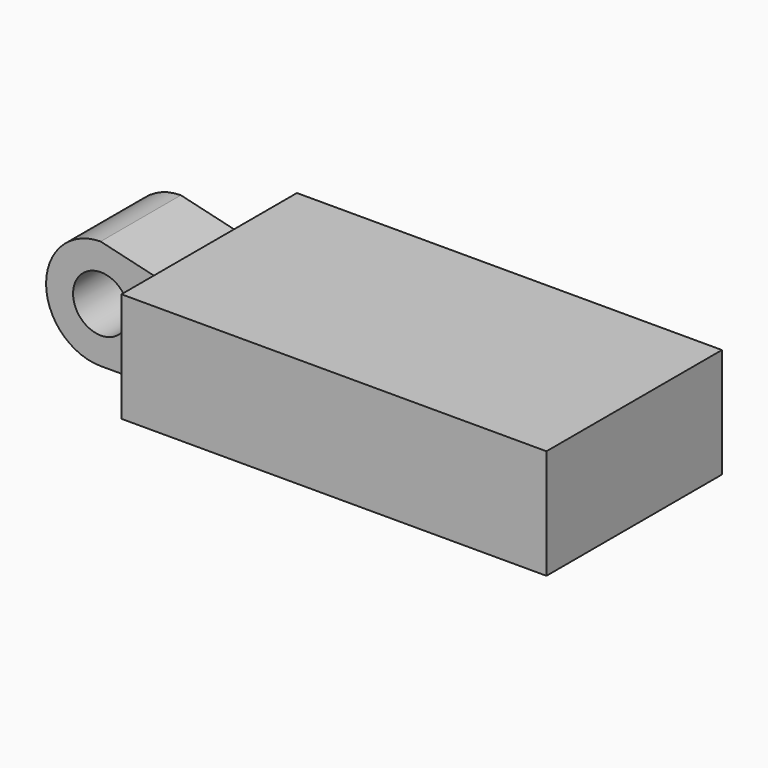
from build123d import *

# Parameters (mm, degrees)
F0_W      = 20
F0_H      = 10
F1_DEPTH  = 5
F3_DEPTH  = 5
F4_R      = 1.27
F5_DEPTH  = 7.287
F7_DEPTH  = 25.4
F9_DEPTH  = 25.4
F10_W     = 0.6200999394
F10_H     = 0.5964474939
F11_DEPTH = 25.4
F12_W     = 0.5901486054
F12_H     = 4.5354563772
F13_DEPTH = 25.4


with BuildPart() as f1:
    # F0 (on Top) → F1 (new body)
    with BuildSketch(Plane.XY):
        with Locations((1.042785123, -6.5861073174)):
            Rectangle(F0_W, F0_H)
    extrude(amount=F1_DEPTH)

    # F2 (on face) → F3 (join)
    with BuildSketch(Plane(origin=(-8.957214877, 0, 0), x_dir=(0, -1, 0), z_dir=(-1, 0, 0))):
        Polygon((4.3001073174, 0), (6.5861073174, 0), (8.8721073174, 0), (8.8721073174, 5), (6.5861073174, 5), (4.3001073174, 5), align=None)
    extrude(amount=F3_DEPTH)

    # F4 (on face) → F5 (cut, through all)
    with BuildSketch(Plane.XZ.offset(8.8721073174)):
        with BuildLine():
            ThreePointArc((-11.457214877, 0), (-13.9450408659, 2.5), (-11.457214877, 5))
            Line((-11.457214877, 5), (-14.9464672431, 5.5829798803))
            Line((-14.9464672431, 5.5829798803), (-15.761434359, 0.3301068575))
            Line((-15.761434359, 0.3301068575), (-11.6382623091, -0.7145671407))
            Line((-11.6382623091, -0.7145671407), (-11.457214877, 0))
        make_face()
        with Locations((-11.4450110796, 2.5)):
            Circle(F4_R)
    extrude(amount=-F5_DEPTH, mode=Mode.SUBTRACT)

    # F6 (on face) → F7 (cut)
    with BuildSketch(Plane.XZ.offset(8.8721073174)):
        Polygon((-8.957214877, 5), (-11.457214877, 5), (-8.957214877, 4.4035525061), align=None)
    extrude(amount=-F7_DEPTH, mode=Mode.SUBTRACT)

    # F8 (on face) → F9 (cut)
    with BuildSketch(Plane.XZ.offset(8.8721073174)):
        Polygon((-8.957214877, 5.1671843976), (-8.957214877, 4.4035525061), (-8.957214877, 0), (-8.3371149376, 0), (-8.3371149376, 5.1671843976), align=None)
    extrude(amount=F9_DEPTH, mode=Mode.SUBTRACT)

    # F10 (on face) → F11 (cut)
    with BuildSketch(Plane.XZ.offset(8.8721073174)):
        with Locations((-8.6471649073, 4.7017762531)):
            Rectangle(F10_W, F10_H)
    extrude(amount=-F11_DEPTH, mode=Mode.SUBTRACT)

    # F12 (on face) → F13 (cut)
    with BuildSketch(Plane(origin=(0, -4.3001073174, 0), x_dir=(-1, 0, 0), z_dir=(0, 1, 0))):
        with Locations((8.6621405743, 2.1358243175)):
            Rectangle(F12_W, F12_H)
    extrude(amount=F13_DEPTH, mode=Mode.SUBTRACT)


solid = f1.part
